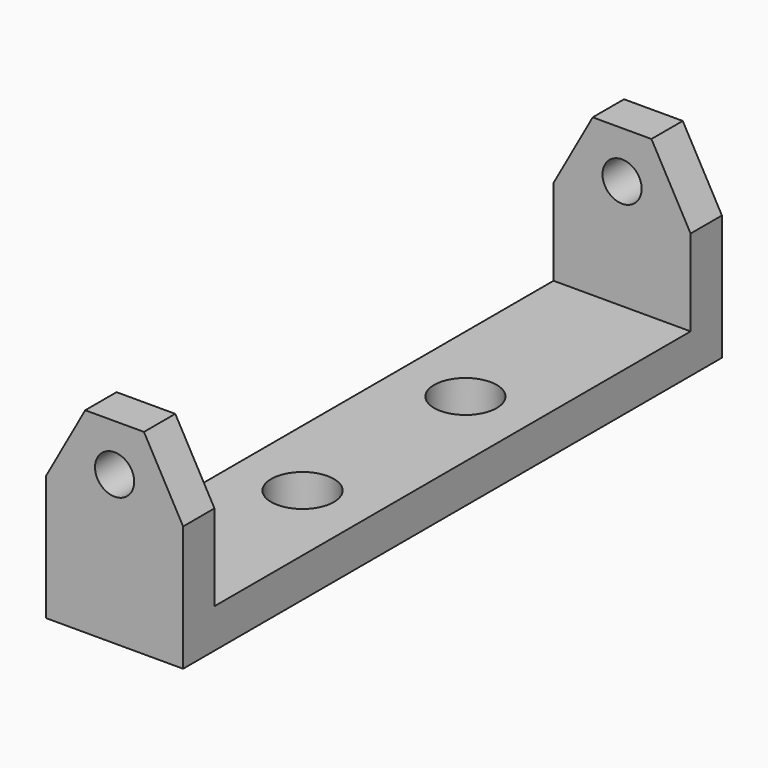
from build123d import *

# Parameters (mm, degrees)
F0_W     = 17.5
F0_H     = 76
F0_R     = 4
F1_DEPTH = 5
F0_H_2   = 5
F2_DEPTH = 25
F3_R     = 2.5
F4_DEPTH = 100


with BuildPart() as f1:
    # F0 (on Top) → F1 (new body)
    with BuildSketch(Plane.XY):
        Rectangle(F0_W, F0_H)
        with Locations((0, -13)):
            Circle(F0_R, mode=Mode.SUBTRACT)
        with Locations((0, 13)):
            Circle(F0_R, mode=Mode.SUBTRACT)
    extrude(amount=F1_DEPTH)

    # F0 (on Top) → F2 (join)
    with BuildSketch(Plane.XY):
        with Locations((0, 40.5)):
            Rectangle(F0_W, F0_H_2)
        with Locations((0, -40.5)):
            Rectangle(F0_W, F0_H_2)
    extrude(amount=F2_DEPTH)

    # F3 (on face) → F4 (cut)
    with BuildSketch(Plane(origin=(0, 43, 0), x_dir=(-1, 0, 0), z_dir=(0, 1, 0))):
        Polygon((3.75, 25), (8.75, 16), (8.75, 25), align=None)
        Polygon((-8.75, 25), (-8.75, 16), (-3.75, 25), align=None)
        with Locations((0, 19)):
            Circle(F3_R)
    extrude(amount=-F4_DEPTH, mode=Mode.SUBTRACT)


solid = f1.part
